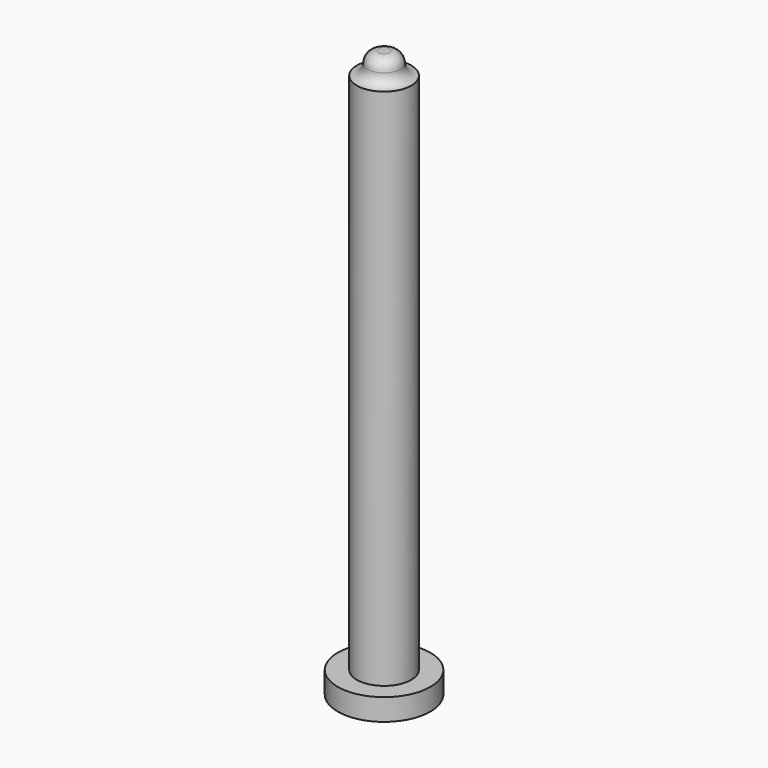
from build123d import *

# Parameters (mm, degrees)
F0_R     = 8.5
F1_DEPTH = 4
F2_R     = 5
F3_DEPTH = 100


with BuildPart() as f1:
    # F0 (on Top) → F1 (new body)
    with BuildSketch(Plane.XY):
        Circle(F0_R)
    extrude(amount=F1_DEPTH)

    # F2 (on Top) → F3 (join)
    with BuildSketch(Plane.XY):
        Circle(F2_R)
    extrude(amount=F3_DEPTH)

    # F4 (on Right) → F5 (revolve)
    with BuildSketch(Plane.YZ):
        with BuildLine():
            Line((3, 102), (0, 102))
            Line((0, 102), (0, 100))
            Line((0, 100), (5, 100))
            ThreePointArc((5, 100), (3.585786, 100.585786), (3, 102))
        make_face()
    revolve(axis=Axis((0, 0, 101), (0, 0, -1)))

    # F6 (on Right) → F7 (revolve)
    with BuildSketch(Plane.YZ):
        with BuildLine():
            Line((0, 104), (0, 102))
            Line((0, 102), (3, 102))
            ThreePointArc((3, 102), (2.414214, 103.414214), (1, 104))
            Line((1, 104), (0, 104))
        make_face()
    revolve(axis=Axis((0, 0, 103), (0, 0, 1)))


solid = f1.part
